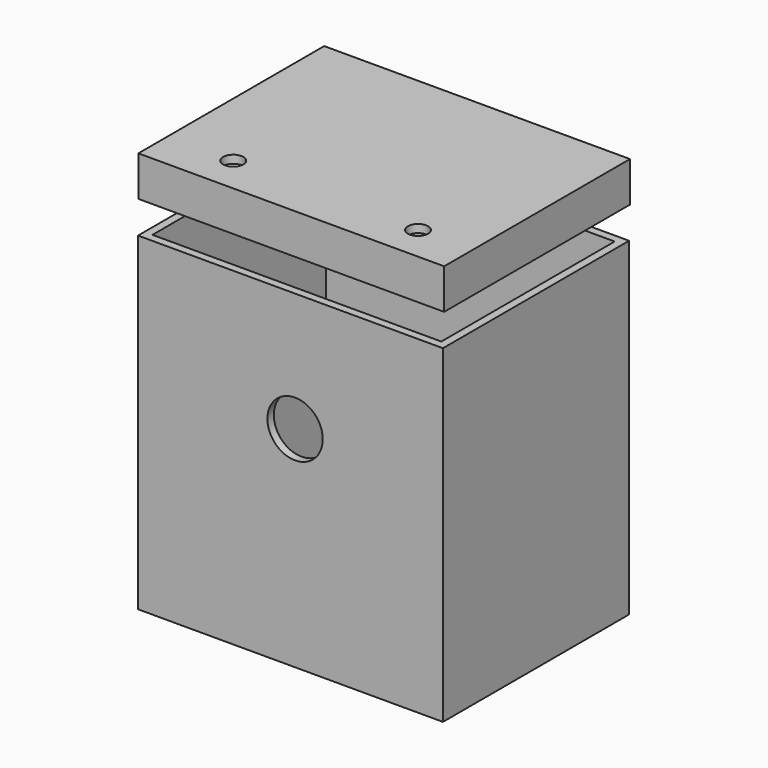
from build123d import *

# Parameters (mm, degrees)
F0_W      = 96.52
F0_H      = 73.66
F1_DEPTH  = 104.14
F2_T      = -2.54
F3_R      = 8.751664
F4_DEPTH  = 25.4
F6_W      = 96.800506
F6_H      = 73.522486
F7_DEPTH  = 12.7
F8_T      = -2.54
F9_R      = 3.213962
F10_DEPTH = 2.54


with BuildPart() as f1:
    # F0 (on Top) → F1 (new body)
    with BuildSketch(Plane.XY):
        with Locations((48.26, -36.83)):
            Rectangle(F0_W, F0_H)
    extrude(amount=F1_DEPTH)

    # F2
    f2_openings = [f1.faces().sort_by_distance(p)[0] for p in [
        (48.26, -36.83, 104.14),
    ]]
    offset(amount=F2_T, openings=f2_openings)

    # F3 (on face) → F4 (cut)
    with BuildSketch(Plane.XZ.offset(73.66)):
        with Locations((49.714513, 66.415764)):
            Circle(F3_R)
    extrude(amount=-F4_DEPTH, mode=Mode.SUBTRACT)


with BuildPart() as f7:
    # F6 (on offset) → F7 (new body)
    with BuildSketch(Plane.XY.offset(114.3)):
        with Locations((48.400253, -36.761243)):
            Rectangle(F6_W, F6_H)
    extrude(amount=F7_DEPTH)

    # F8
    f8_openings = [f7.faces().sort_by_distance(p)[0] for p in [
        (48.400253, -36.761243, 114.3),
    ]]
    offset(amount=F8_T, openings=f8_openings)

    # F9 (on face) → F10 (cut)
    with BuildSketch(Plane.XY.offset(127)):
        with Locations((20.767065, -61.943103)):
            Circle(F9_R)
        with Locations((79.599023, -62.388796)):
            Circle(F9_R)
    extrude(amount=-F10_DEPTH, mode=Mode.SUBTRACT)


solid = Compound([f1.part, f7.part])
